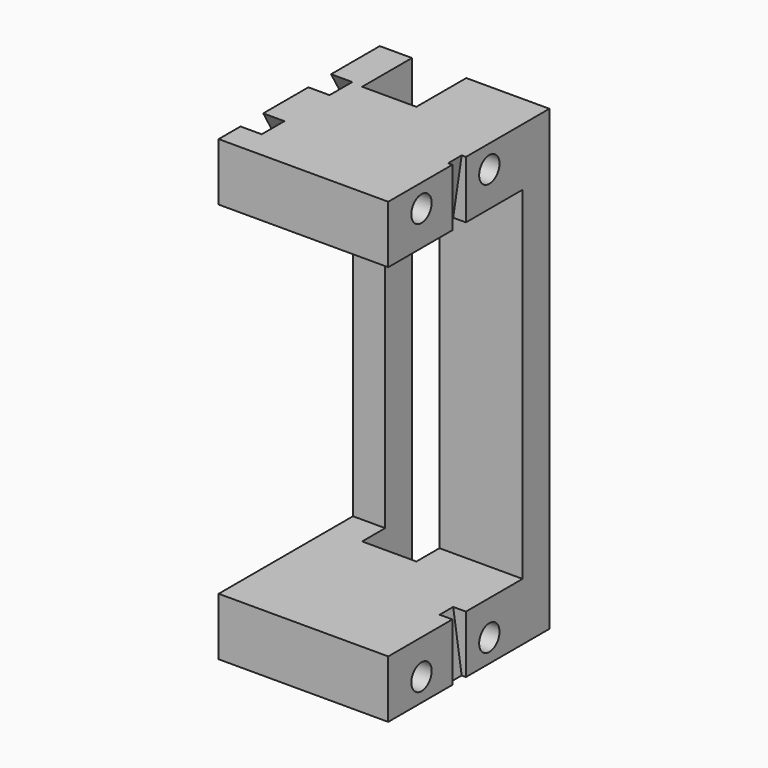
from build123d import *

# Parameters (mm, degrees)
SKETCH050_R             = 1.5
PAD021_DEPTH            = 20
POCKET001_DEPTH         = 27.001
POCKET001_DEPTH_BACK    = 27.001
POCKET032_DEPTH         = 1
POCKET033_DEPTH         = 2.5
SKETCH008_W             = 54
SKETCH008_H             = 1.25
POCKET003_DEPTH         = 0.001
POCKET003_DEPTH_BACK    = 20.001
BODY009_PITCH_ANGLE     = 90
BODY009_PLACEMENT_ANGLE = 90


with BuildPart() as part:
    # Sketch050 → Pad021 (new body)
    with BuildSketch(Plane.XZ):
        Polygon((-27, 25), (27, 25), (27, 0), (20.2, 0), (20.2, 19.8), (20, 19.8), (-20, 19.8), (-20.2, 19.8), (-20.2, 0), (-27, 0), align=None)
        with Locations((24.3, 14.9)):
            Circle(SKETCH050_R, mode=Mode.SUBTRACT)
        with Locations((24.3, 4.9)):
            Circle(SKETCH050_R, mode=Mode.SUBTRACT)
        with Locations((-24.3, 14.9)):
            Circle(SKETCH050_R, mode=Mode.SUBTRACT)
        with Locations((-24.3, 4.9)):
            Circle(SKETCH050_R, mode=Mode.SUBTRACT)
    extrude(amount=PAD021_DEPTH)

    # Sketch007 → Pocket001 (cut, two sides)
    with BuildSketch(Plane.YZ) as pocket001_sk:
        Polygon((-10.2, 16.4), (-10.2, 23.75), (-7.25, 23.75), (-6.749999, 23.75), (-3.8, 23.75), (-3.8, 16.4), align=None)
    extrude(amount=-POCKET001_DEPTH, mode=Mode.SUBTRACT)
    extrude(pocket001_sk.sketch, amount=POCKET001_DEPTH_BACK, mode=Mode.SUBTRACT)

    # Sketch003 → Pocket032 (cut, symmetric)
    with BuildSketch(Plane(origin=(0, -23.75, 10.448022), x_dir=(1, 0, 0), z_dir=(0, 0, -1))):
        Polygon((-20.2, -3.75), (-27, -3.75), (-27, -4.25), (-20.2, -5.25), align=None)
        Polygon((20.2, -3.75), (27, -3.75), (27, -4.25), (20.2, -5.25), align=None)
    extrude(amount=POCKET032_DEPTH, both=True, mode=Mode.SUBTRACT)

    # Sketch051 → Pocket033 (cut)
    with BuildSketch(Plane.XZ):
        Polygon((-27.1, 16.516581), (-27.1, 13.283419), (-24.3, 11.666838), (-21.5, 13.283419), (-21.5, 16.516581), (-24.3, 18.133162), align=None)
        Polygon((-27.1, 6.516581), (-27.1, 3.283419), (-24.3, 1.666838), (-21.5, 3.283419), (-21.5, 6.516581), (-24.3, 8.133162), align=None)
        Polygon((21.5, 16.516581), (21.5, 13.283419), (24.3, 11.666838), (27.1, 13.283419), (27.1, 16.516581), (24.3, 18.133162), align=None)
        Polygon((21.5, 6.516581), (21.5, 3.283419), (24.3, 1.666838), (27.1, 3.283419), (27.1, 6.516581), (24.3, 8.133162), align=None)
    extrude(amount=POCKET033_DEPTH, mode=Mode.SUBTRACT)

    # Sketch008 → Pocket003 (cut, two sides)
    with BuildSketch(Plane.XZ) as pocket003_sk:
        with Locations((0, 24.375)):
            Rectangle(SKETCH008_W, SKETCH008_H)
    extrude(amount=-POCKET003_DEPTH, mode=Mode.SUBTRACT)
    extrude(pocket003_sk.sketch, amount=POCKET003_DEPTH_BACK, mode=Mode.SUBTRACT)


with BuildPart() as part_1:
    # Body009 pitch: moved
    add(part.part.rotate(Axis((0, 0, 0), (0, 1, 0)), BODY009_PITCH_ANGLE))


with BuildPart() as part_2:
    # Body009 placement: moved
    add(part_1.part.moved(Location((-7.4, -44.75, 68.6))).rotate(Axis((-7.4, -44.75, 68.6), (0, 0, 1)), BODY009_PLACEMENT_ANGLE))


solid = part_2.part
